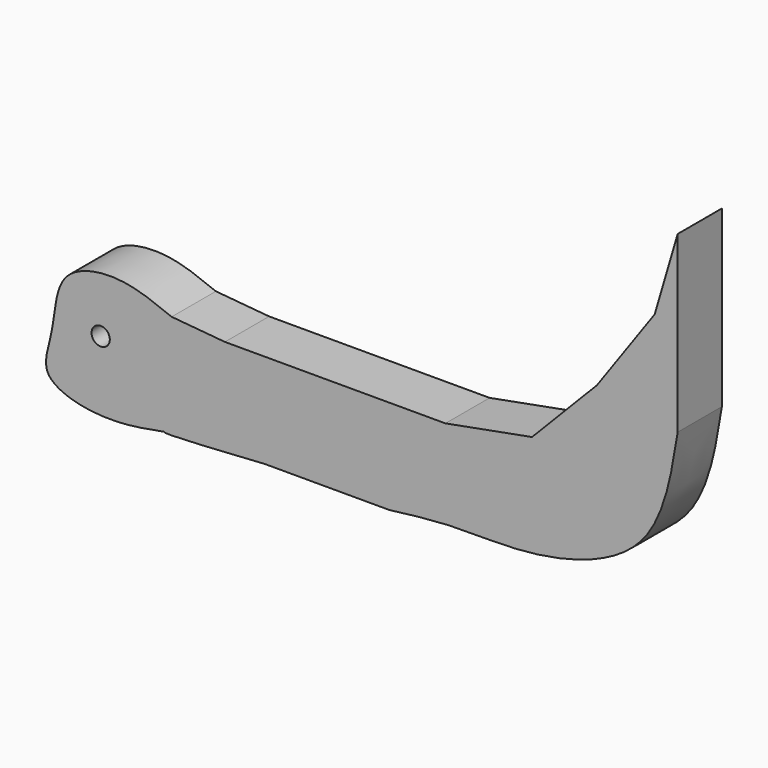
from build123d import *

# Parameters (mm, degrees)
F1_DEPTH = 10
F3_D     = 3.3


with BuildPart() as f1:
    # F0 (on Front) → F1 (new body)
    with BuildSketch(Plane.XZ):
        with BuildLine():
            Line((-10.4734804481, 53.4383915365), (-20.1092623174, 54.3038807809))
            add(Edge.make_bspline(
                [(-20.1092623174, 54.3038807809), (-23.3402828463, 55.6152098778), (-29.658978649, 58.1796905384), (-41.2345234756, 55.7829477174), (-41.1390276998, 44.9861024455), (-44.6739675741, 36.8204398298), (-32.5531582873, 33.4764915402), (-25.2779745233, 34.8410426615), (-21.4630607516, 35.5565771461)],
                knots=[0, 0, 0, 0, 0.1733272911, 0.3389648617, 0.50599974, 0.6478866541, 0.8153610828, 1, 1, 1, 1], degree=3))
            add(Edge.make_bspline(
                [(-3.2173215877, 36.3456867635), (-12.1783734817, 35.7678015902), (-21.6430678813, 35.1574372459), (-21.4721554724, 35.5364109116), (-21.4630607516, 35.5565771461)],
                knots=[0, 0, 0, 0, 0.9467872406, 1, 1, 1, 1], degree=3))
            add(Edge.make_bspline(
                [(19.2888658494, 36.3456867635), (11.7868033703, 36.3456867635), (4.2847408913, 36.3456867635), (-3.2173215877, 36.3456867635)],
                knots=[0, 0, 0, 0, 22.5061874371, 22.5061874371, 22.5061874371, 22.5061874371], degree=3))
            add(Edge.make_bspline(
                [(71.4373290539, 65.7135099173), (70.2431957458, 58.2715662658), (67.8803456673, 43.5460770575), (46.1496688485, 36.8484810563), (31.3814852341, 37.8776108572), (23.1536815798, 36.8352915503), (19.2888658494, 36.3456867635)],
                knots=[0, 0, 0, 0, 0.2792343908, 0.5525254155, 0.7898094211, 1, 1, 1, 1], degree=3))
            add(Edge.make_bspline(
                [(71.4373290539, 83.1219926476), (71.4373290539, 77.3191650709), (71.4373290539, 71.5163374941), (71.4373290539, 65.7135099173)],
                knots=[0, 0, 0, 0, 17.4084827304, 17.4084827304, 17.4084827304, 17.4084827304], degree=3))
            add(Edge.make_bspline(
                [(71.4373290539, 97.2770601511), (71.4373290539, 92.5587043166), (71.4373290539, 87.8403484821), (71.4373290539, 83.1219926476)],
                knots=[0, 0, 0, 0, 14.1550675035, 14.1550675035, 14.1550675035, 14.1550675035], degree=3))
            add(Edge.make_bspline(
                [(67.2757327557, 83.1219926476), (68.6629315217, 87.8403484821), (70.0501302878, 92.5587043166), (71.4373290539, 97.2770601511)],
                knots=[0, 0, 0, 0, 14.7541458505, 14.7541458505, 14.7541458505, 14.7541458505], degree=3))
            Line((67.2757327557, 83.1219926476), (56.8310506642, 68.4341490269))
            Line((56.8310506642, 68.4341490269), (45.0807772577, 56.3574768603))
            Line((45.0807772577, 56.3574768603), (29.4137429446, 53.4383915365))
            Line((29.4137429446, 53.4383915365), (20.2746428549, 53.4383915365))
            Line((20.2746428549, 53.4383915365), (-1.8185856752, 53.4383915365))
            Line((-1.8185856752, 53.4383915365), (-10.4734804481, 53.4383915365))
        make_face()
    extrude(amount=-F1_DEPTH)

    # F3 (through all)
    with Locations(Plane.XZ):
        with Locations((-32.9475961626, 47.0472611487)):
            Hole(F3_D / 2)


solid = f1.part
